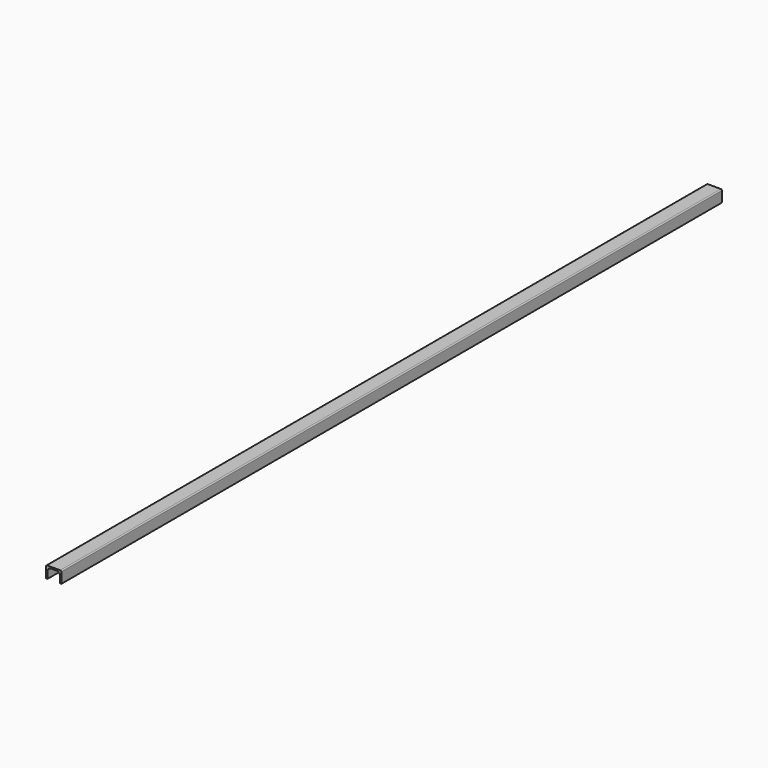
from build123d import *

# Parameters (mm, degrees)
F1_DEPTH = 812.8


with BuildPart() as f1:
    # F0 (on Front) → F1 (new body)
    with BuildSketch(Plane.XZ):
        with BuildLine():
            Line((6.5, 11.5), (0, 11.5))
            Line((0, 11.5), (-6.5, 11.5))
            ThreePointArc((-6.5, 11.5), (-7.207107, 11.207107), (-7.5, 10.5))
            Line((-7.5, 10.5), (-7.5, 0))
            Line((-7.5, 0), (-6, 0))
            Line((-6, 0), (-6, 7))
            ThreePointArc((-6, 7), (-5.12132, 9.12132), (-3, 10))
            Line((-3, 10), (0, 10))
            Line((0, 10), (3, 10))
            ThreePointArc((3, 10), (5.12132, 9.12132), (6, 7))
            Line((6, 7), (6, 0))
            Line((6, 0), (7.5, 0))
            Line((7.5, 0), (7.5, 10.5))
            ThreePointArc((7.5, 10.5), (7.207107, 11.207107), (6.5, 11.5))
        make_face()
    extrude(amount=F1_DEPTH)


solid = f1.part
